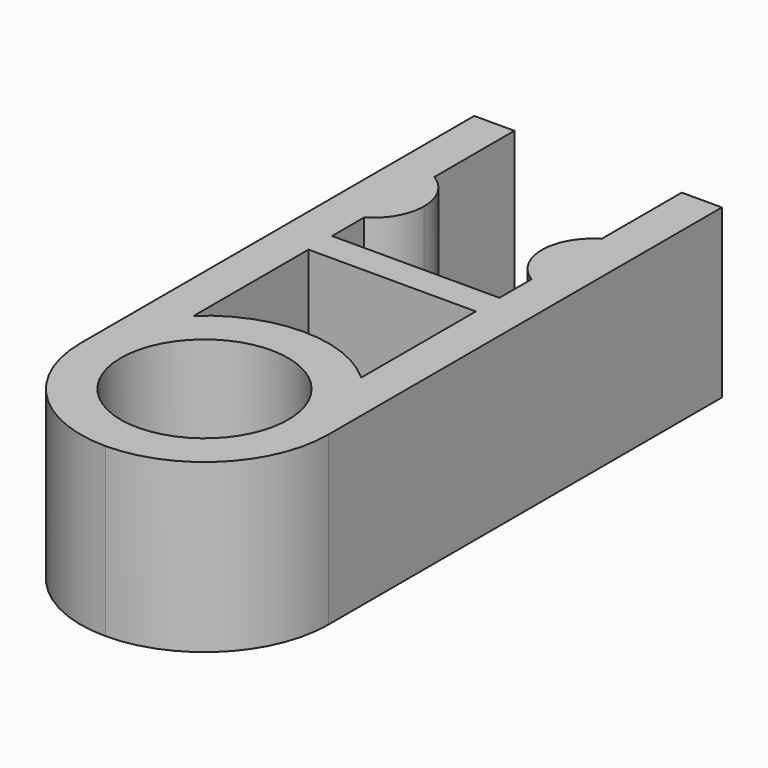
from build123d import *

# Parameters (mm, degrees)
F1_DEPTH = 6.35


with BuildPart() as f1:
    # F0 (on Top) → F1 (new body)
    with BuildSketch(Plane.XY):
        with BuildLine():
            Line((-3.175, -18.669), (-3.175, -15.204901849))
            ThreePointArc((-3.175, -15.204901849), (-4.3011583324, -16.7767426179), (-4.699, -18.669))
            ThreePointArc((-4.699, -18.669), (-3.3226947648, -21.9916947648), (0, -23.368))
            ThreePointArc((0, -23.368), (3.3226947648, -21.9916947648), (4.699, -18.669))
            ThreePointArc((4.699, -18.669), (4.3011583324, -16.7767426179), (3.175, -15.204901849))
            Line((3.175, -15.204901849), (3.175, -18.669))
            ThreePointArc((3.175, -18.669), (0, -21.844), (-3.175, -18.669))
        make_face()
        with BuildLine():
            Line((-3.175, -15.204901849), (-3.175, -9.7663))
            Line((-3.175, -9.7663), (-4.699, -9.7663))
            Line((-4.699, -9.7663), (-4.699, -18.669))
            ThreePointArc((-4.699, -18.669), (-4.3011583324, -16.7767426179), (-3.175, -15.204901849))
        make_face()
        with BuildLine():
            Line((4.699, -9.7663), (3.175, -9.7663))
            Line((3.175, -9.7663), (3.175, -15.204901849))
            ThreePointArc((3.175, -15.204901849), (4.3011583324, -16.7767426179), (4.699, -18.669))
            Line((4.699, -18.669), (4.699, -9.7663))
        make_face()
        with BuildLine():
            ThreePointArc((3.175, -15.204901849), (0, -13.97), (-3.175, -15.204901849))
            Line((-3.175, -15.204901849), (-3.175, -18.669))
            ThreePointArc((-3.175, -18.669), (0, -15.494), (3.175, -18.669))
            Line((3.175, -18.669), (3.175, -15.204901849))
        make_face()
        Polygon((2.2352, -8.6487), (0, -8.6487), (-2.2352, -8.6487), (-3.175, -8.6487), (-3.175, -9.7663), (3.175, -9.7663), (3.175, -8.6487), align=None)
        with BuildLine():
            ThreePointArc((4.699, -7.3322426969), (3.9155835913, -7.3857334796), (3.175, -7.1247))
            Line((3.175, -7.1247), (3.175, -8.6487))
            Line((3.175, -8.6487), (3.175, -9.7663))
            Line((3.175, -9.7663), (4.699, -9.7663))
            Line((4.699, -9.7663), (4.699, -7.3322426969))
        make_face()
        with BuildLine():
            Line((-3.175, -8.6487), (-3.175, -7.1247))
            ThreePointArc((-3.175, -7.1247), (-3.9155835913, -7.3857334796), (-4.699, -7.3322426969))
            Line((-4.699, -7.3322426969), (-4.699, -9.7663))
            Line((-4.699, -9.7663), (-3.175, -9.7663))
            Line((-3.175, -9.7663), (-3.175, -8.6487))
        make_face()
        with BuildLine():
            Line((-3.175, -7.1247), (-3.175, -3.7973))
            ThreePointArc((-3.175, -3.7973), (-3.9155835913, -3.5362665204), (-4.699, -3.5897573031))
            Line((-4.699, -3.5897573031), (-4.699, -7.3322426969))
            ThreePointArc((-4.699, -7.3322426969), (-3.9155835913, -7.3857334796), (-3.175, -7.1247))
        make_face()
        with BuildLine():
            ThreePointArc((-2.2352, -5.461), (-2.4863911938, -4.5056045675), (-3.175, -3.7973))
            Line((-3.175, -3.7973), (-3.175, -7.1247))
            ThreePointArc((-3.175, -7.1247), (-2.4863911938, -6.4163954325), (-2.2352, -5.461))
        make_face()
        with BuildLine():
            Line((3.175, -7.1247), (3.175, -3.7973))
            ThreePointArc((3.175, -3.7973), (2.4863911937, -4.5056045676), (2.2352, -5.4610000002))
            ThreePointArc((2.2352, -5.4610000002), (2.4863911938, -6.4163954326), (3.175, -7.1247))
        make_face()
        with BuildLine():
            ThreePointArc((4.699, -3.5897573031), (3.9155835913, -3.5362665204), (3.175, -3.7973))
            Line((3.175, -3.7973), (3.175, -7.1247))
            ThreePointArc((3.175, -7.1247), (3.9155835913, -7.3857334796), (4.699, -7.3322426969))
            Line((4.699, -7.3322426969), (4.699, -3.5897573031))
        make_face()
        with BuildLine():
            Line((4.699, 0), (3.175, 0))
            Line((3.175, 0), (3.175, -3.7973))
            ThreePointArc((3.175, -3.7973), (3.9155835913, -3.5362665204), (4.699, -3.5897573031))
            Line((4.699, -3.5897573031), (4.699, 0))
        make_face()
        with BuildLine():
            Line((-3.175, -3.7973), (-3.175, 0))
            Line((-3.175, 0), (-4.699, 0))
            Line((-4.699, 0), (-4.699, -3.5897573031))
            ThreePointArc((-4.699, -3.5897573031), (-3.9155835913, -3.5362665204), (-3.175, -3.7973))
        make_face()
    extrude(amount=F1_DEPTH)


solid = f1.part
